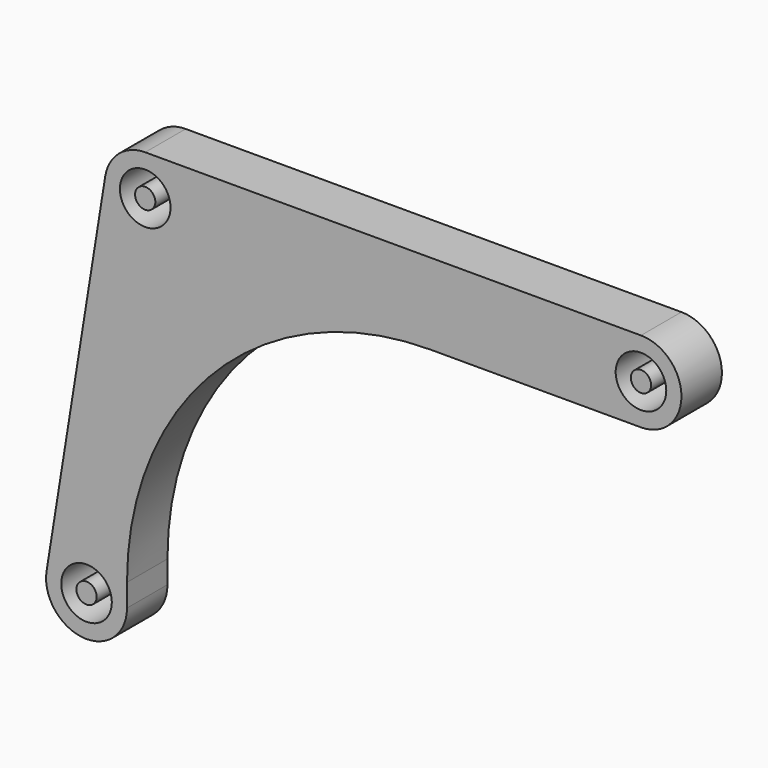
from build123d import *

# Parameters (mm, degrees)
F0_R     = 2.5
F0_R_2   = 1
F1_DEPTH = 5


with BuildPart() as f1:
    # F0 (on Front) → F1 (new body)
    with BuildSketch(Plane.XZ):
        with BuildLine():
            Line((49, 4), (0, 4))
            ThreePointArc((0, 4), (-2.59533, 3.043725), (-3.949735, 0.632132))
            Line((-3.949735, 0.632132), (-9.749735, -35.607868))
            ThreePointArc((-9.749735, -35.607868), (-5.482936, -32.252586), (-1.8, -36.24))
            Line((-1.8, -36.24), (-1.8, -34))
            ThreePointArc((-1.8, -34), (6.986797, -12.786797), (28.2, -4))
            Line((28.2, -4), (49, -4))
            ThreePointArc((49, -4), (53, 0), (49, 4))
        make_face()
        Circle(F0_R, mode=Mode.SUBTRACT)
        with Locations((49, 0)):
            Circle(F0_R, mode=Mode.SUBTRACT)
        with BuildLine():
            ThreePointArc((-1.8, -36.24), (-5.482936, -32.252586), (-9.749735, -35.607868))
            ThreePointArc((-9.749735, -35.607868), (-6.117064, -40.227414), (-1.8, -36.24))
        make_face()
        with Locations((-5.8, -36.24)):
            Circle(F0_R, mode=Mode.SUBTRACT)
        with Locations((-5.8, -36.24)):
            Circle(F0_R_2)
        Circle(F0_R_2)
        with Locations((49, 0)):
            Circle(F0_R_2)
    extrude(amount=F1_DEPTH)


solid = f1.part
